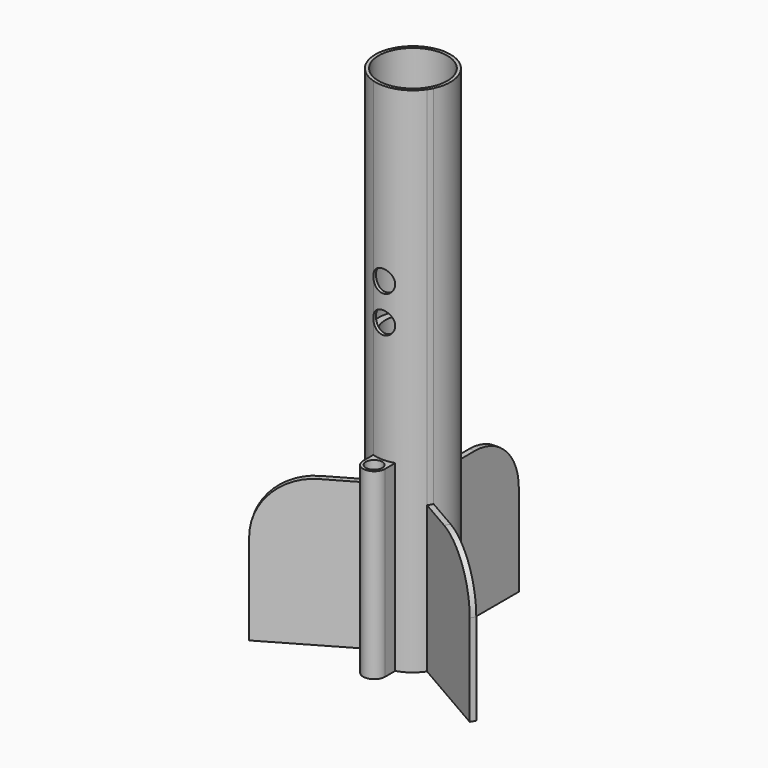
from build123d import *

# Parameters (mm, degrees)
F0_R     = 9.375
F1_DEPTH = 140
F2_DEPTH = 40
F3_COUNT = 3
F0_R_2   = 2.25
F4_DEPTH = 50
F5_START = 62
F0_R_3   = 7.5
F5_DEPTH = 15
F6_R     = 3
F7_DEPTH = 25
F8_R     = 15


with BuildPart() as f1:
    # F0 (on Top) → F1 (new body)
    with BuildSketch(Plane.XY):
        with BuildLine():
            ThreePointArc((3, -9.801147892), (8.2405248619, -6.0955926701), (10.25, 0))
            ThreePointArc((10.25, 0), (7.5083287088, 6.9776428685), (0.75, 10.2225241501))
            ThreePointArc((0.75, 10.2225241501), (0, 10.25), (-0.75, 10.2225241501))
            ThreePointArc((-0.75, 10.2225241501), (-10.185896402, 1.1445586432), (-3, -9.801147892))
            ThreePointArc((-3, -9.801147892), (-1.5166961062, -10.1371659216), (-1.65e-08, -10.25))
            ThreePointArc((-1.65e-08, -10.25), (1.5166960899, -10.137165924), (3, -9.801147892))
        make_face()
        Circle(F0_R, mode=Mode.SUBTRACT)
    extrude(amount=F1_DEPTH)

    # F0 (on Top) → F2 (join)
    with BuildSketch(Plane.XY):
        with BuildLine():
            ThreePointArc((-0.75, 10.2225241501), (0, 10.25), (0.75, 10.2225241501))
            Line((0.75, 10.2225241501), (0.75, 35.2225241501))
            Line((0.75, 35.2225241501), (-0.75, 35.2225241501))
            Line((-0.75, 35.2225241501), (-0.75, 10.2225241501))
        make_face()
    extrude(amount=F2_DEPTH)


with BuildPart() as f3_1:
    # F3: instance of F1
    add(f1.part.rotate(Axis((0, 0, 140), (0, 0, 1)), 1 * 360 / F3_COUNT))


with BuildPart() as f3_2:
    # F3: instance of F1
    add(f1.part.rotate(Axis((0, 0, 140), (0, 0, 1)), 2 * 360 / F3_COUNT))


with BuildPart() as f1_1:
    add(f1.part)

    add(f3_1.part)  # F4 merges F3_1

    add(f3_2.part)  # F4 merges F3_2
    # F0 (on Top) → F4 (join)
    with BuildSketch(Plane.XY):
        with BuildLine():
            ThreePointArc((3, -13.25), (2.1213203377, -11.1286796506), (-1.65e-08, -10.25))
            ThreePointArc((-1.65e-08, -10.25), (-2.1213203494, -11.1286796623), (-3, -13.25))
            ThreePointArc((-3, -13.25), (0, -16.25), (3, -13.25))
        make_face()
        with Locations((0, -13.25)):
            Circle(F0_R_2, mode=Mode.SUBTRACT)
        with BuildLine():
            Line((3, -13.25), (3, -9.801147892))
            ThreePointArc((3, -9.801147892), (1.5166960899, -10.137165924), (-1.65e-08, -10.25))
            ThreePointArc((-1.65e-08, -10.25), (2.1213203377, -11.1286796506), (3, -13.25))
        make_face()
        with BuildLine():
            ThreePointArc((-3, -13.25), (-2.1213203494, -11.1286796623), (-1.65e-08, -10.25))
            ThreePointArc((-1.65e-08, -10.25), (-1.5166961062, -10.1371659216), (-3, -9.801147892))
            Line((-3, -9.801147892), (-3, -13.25))
        make_face()
    extrude(amount=F4_DEPTH)

    # F0 (on Top) → F5 (join)
    with BuildSketch(Plane.XY.offset(F5_START)):
        Circle(F0_R)
        Circle(F0_R_3, mode=Mode.SUBTRACT)
    extrude(amount=F5_DEPTH)

    # F6 (on Front) → F7 (cut)
    with BuildSketch(Plane.XZ):
        with Locations((0, 82.9966113766)):
            Circle(F6_R)
        with Locations((0, 92.9966113766)):
            Circle(F6_R)
    extrude(amount=F7_DEPTH, mode=Mode.SUBTRACT)

    # F8
    f8_edges = [f1_1.edges().sort_by_distance(p)[0] for p in [
        (0, 35.222524, 40),
        (30.503601, -17.611262, 40),
        (-30.503601, -17.611262, 40),
    ]]
    fillet(f8_edges, radius=F8_R)


solid = f1_1.part
